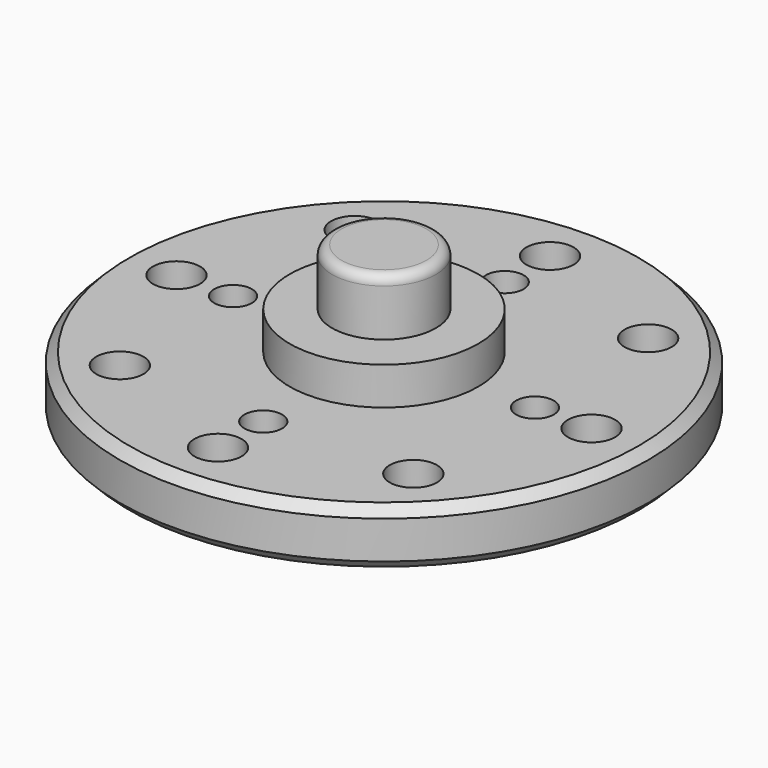
from build123d import *

# Parameters (mm, degrees)
SKETCH017_R           = 1.25
POCKET_DEPTH          = 3
POLARPATTERN_COUNT    = 8
SKETCH018_R           = 1
POCKET001_DEPTH       = 3
POLARPATTERN001_COUNT = 4
CHAMFER_SIZE          = 0.5
FILLET005_R           = 0.5


with BuildPart() as part:
    # Sketch016 → Revolution003 (revolve)
    with BuildSketch(Plane.XZ):
        Polygon((0, 0), (5, 0), (5, 0.5), (14, 0.5), (14, 3.5), (5, 3.5), (5, 5.5), (2.75, 5.5), (2.75, 8.5), (0, 8.5), align=None)
    revolve(axis=Axis((0, 0, 0), (0, 0, 1)))

    # Sketch017 (on Face5 of Revolution003) → Pocket (cut)
    with BuildSketch(Plane(origin=(0, 0, 3.5), x_dir=(-1, 0, 0), z_dir=(0, 0, 1))):
        with Locations((0, -11)):
            Circle(SKETCH017_R)
    pocket = extrude(amount=-POCKET_DEPTH, mode=Mode.SUBTRACT)

    # PolarPattern: Pocket ×8 about axis
    polarpattern_axis = Axis((0, 0, 3.5), (0, 0, 1))
    for i in range(1, POLARPATTERN_COUNT):
        add(pocket.rotate(polarpattern_axis, i * 360 / POLARPATTERN_COUNT), mode=Mode.SUBTRACT)

    # Sketch018 (on Face13 of PolarPattern) → Pocket001 (cut)
    with BuildSketch(Plane(origin=(0, 0, 3.5), x_dir=(-1, 0, 0), z_dir=(0, 0, 1))):
        with Locations((0, 8)):
            Circle(SKETCH018_R)
    pocket001 = extrude(amount=-POCKET001_DEPTH, mode=Mode.SUBTRACT)

    # PolarPattern001: Pocket001 ×4 about axis
    polarpattern001_axis = Axis((0, 0, 3.5), (0, 0, 1))
    for i in range(1, POLARPATTERN001_COUNT):
        add(pocket001.rotate(polarpattern001_axis, i * 360 / POLARPATTERN001_COUNT), mode=Mode.SUBTRACT)

    # Chamfer
    chamfer_edges = [part.edges().sort_by_distance(p)[0] for p in [
        (-14, 0, 3.5),
        (-14, 0, 0.5),
    ]]
    chamfer(chamfer_edges, length=CHAMFER_SIZE)

    # Fillet005
    fillet005_edges = [part.edges().sort_by_distance(p)[0] for p in [
        (-2.75, 0, 8.5),
    ]]
    fillet(fillet005_edges, radius=FILLET005_R)


solid = part.part
